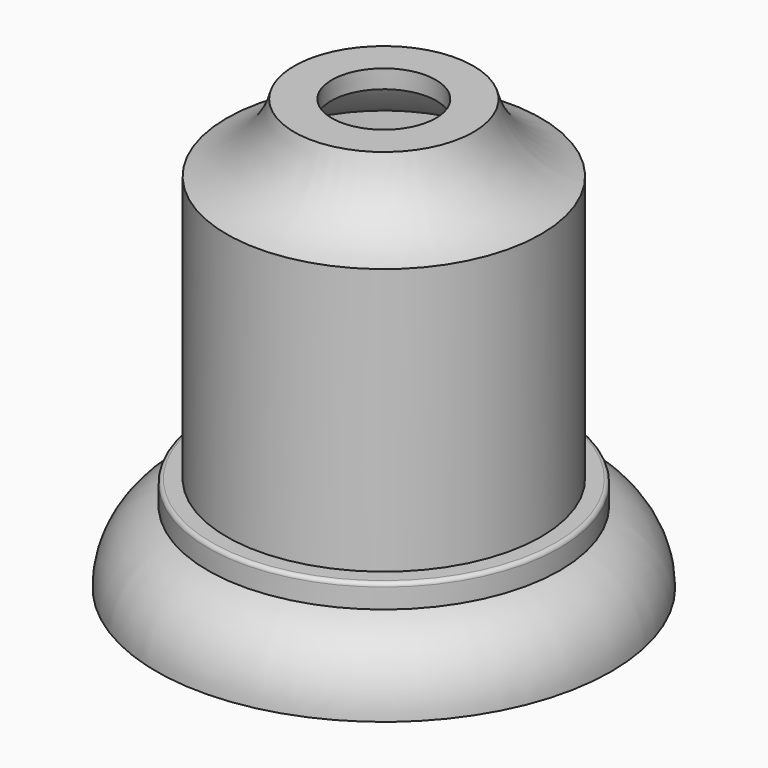
from build123d import *


with BuildPart() as f1:
    # F0 (on Front) → F1 (revolve)
    with BuildSketch(Plane.XZ):
        with BuildLine():
            Line((9.518949, 47.247715), (5.518949, 47.247715))
            Line((5.518949, 47.247715), (5.611304, 45.247715))
            Line((5.611304, 45.247715), (8.062744, 45.247715))
            ThreePointArc((8.062744, 45.247715), (10.693632, 41.229939), (14.700001, 38.581714))
            Line((14.700001, 38.581714), (14.700001, 9.730841))
            Line((14.700001, 9.730841), (16.700001, 9.730841))
            Line((16.700001, 9.730841), (16.700001, 7.636367))
            ThreePointArc((16.700001, 7.636367), (20.602592, 5.654333), (22.172975, 1.568678))
            Line((22.172975, 1.568678), (24.172975, 1.568678))
            ThreePointArc((24.172975, 1.568678), (22.664216, 6.276708), (18.700001, 9.230841))
            Line((18.700001, 9.230841), (18.700001, 11.330841))
            ThreePointArc((18.700001, 11.330841), (18.582844, 11.613684), (18.300001, 11.730841))
            Line((18.300001, 11.730841), (16.700001, 11.730841))
            Line((16.700001, 11.730841), (16.700001, 40.030841))
            ThreePointArc((16.700001, 40.030841), (12.108615, 42.643386), (9.518949, 47.247715))
        make_face()
    revolve(axis=Axis((0, 0, 7.684152), (0, 0, 1)))


solid = f1.part
